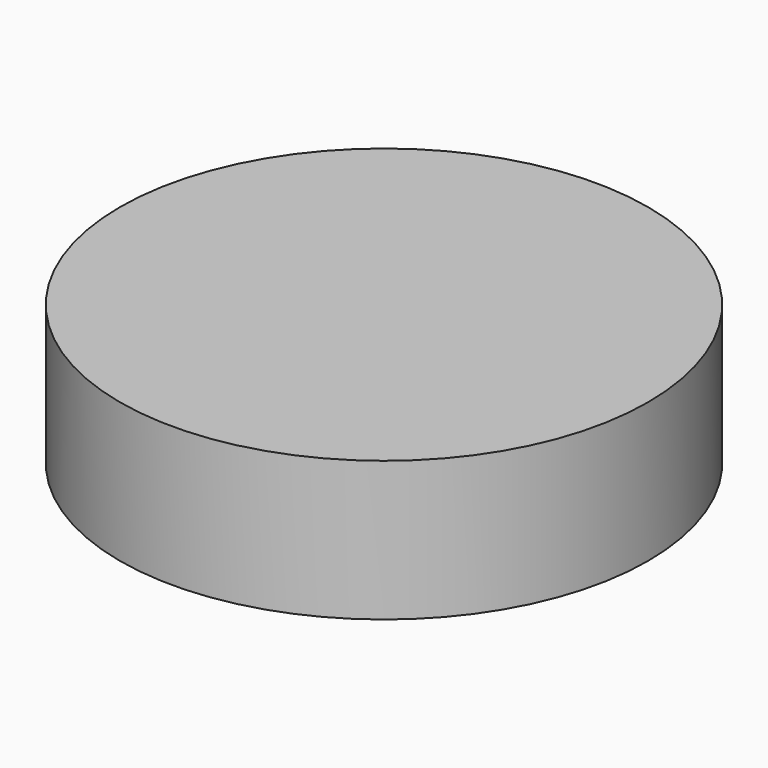
from build123d import *

# Parameters (mm, degrees)
F0_R     = 18.905
F0_R_2   = 17.405
F1_DEPTH = 10
F2_R     = 18.905
F3_DEPTH = 1.5


with BuildPart() as f1:
    # F0 (on Top) → F1 (new body)
    with BuildSketch(Plane.XY):
        Circle(F0_R)
        Circle(F0_R_2, mode=Mode.SUBTRACT)
    extrude(amount=F1_DEPTH)

    # F2 (on face) → F3 (join)
    with BuildSketch(Plane.XY.offset(10)):
        Circle(F2_R)
    extrude(amount=-F3_DEPTH)


solid = f1.part
